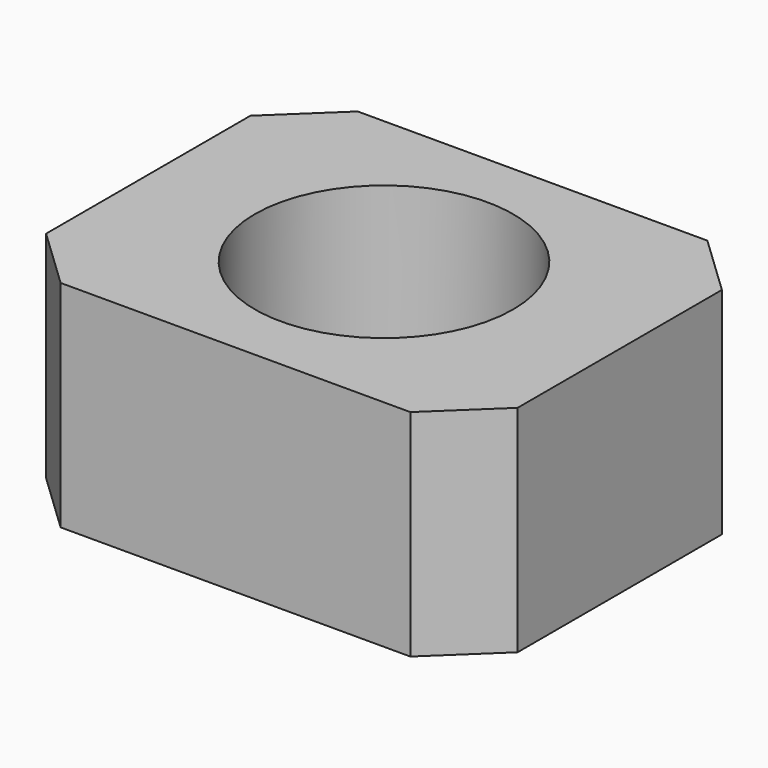
from build123d import *

# Parameters (mm, degrees)
F0_R     = 15
F1_DEPTH = 25


with BuildPart() as f1:
    # F0 (on Top) → F1 (new body)
    with BuildSketch(Plane.XY):
        Polygon((-20.309781, -21.567568), (20.309781, -21.567568), (27.385138, -14.834567), (27.385138, 14.834567), (20.309781, 21.567568), (-20.309781, 21.567568), (-27.385138, 14.834567), (-27.385138, -14.834567), align=None)
        Circle(F0_R, mode=Mode.SUBTRACT)
    extrude(amount=F1_DEPTH)


solid = f1.part
